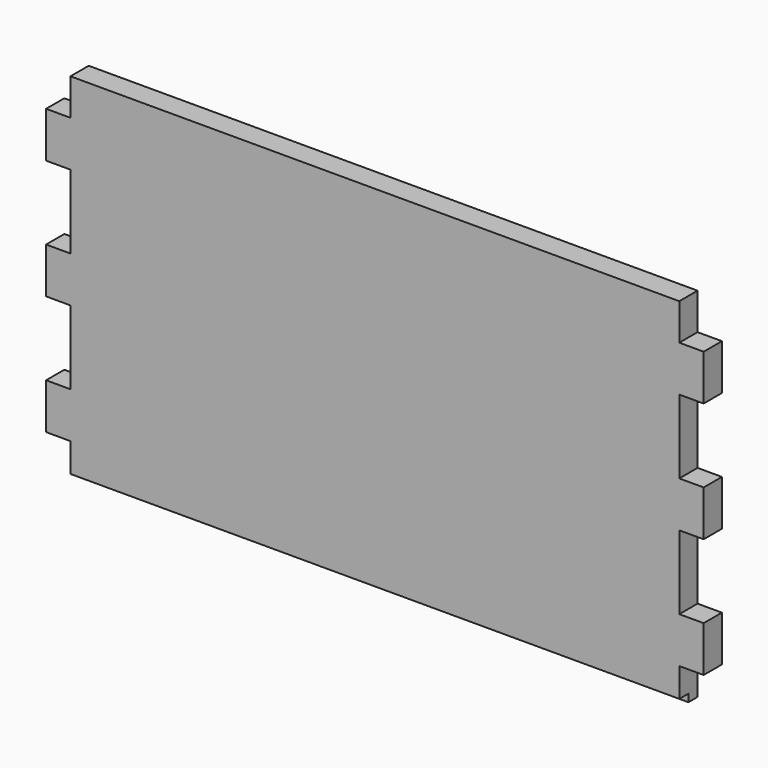
from build123d import *

# Parameters (mm, degrees)
F1_DEPTH = 9.525
F2_W     = 9.525
F2_H     = 6.35
F3_DEPTH = 528.321


with BuildPart() as f1:
    # F0 (on Front) → F1 (new body, symmetric)
    with BuildSketch(Plane.XZ):
        Polygon((254, 149.225), (-254, 149.225), (-254, 118.745), (-274.32, 118.745), (-274.32, 80.645), (-254, 80.645), (-254, 19.05), (-274.32, 19.05), (-274.32, -19.05), (-254, -19.05), (-254, -80.645), (-274.32, -80.645), (-274.32, -118.745), (-254, -118.745), (-254, -149.225), (254, -149.225), (254, -118.745), (274.32, -118.745), (274.32, -80.645), (254, -80.645), (254, -19.05), (274.32, -19.05), (274.32, 19.05), (254, 19.05), (254, 80.645), (274.32, 80.645), (274.32, 118.745), (254, 118.745), align=None)
    extrude(amount=F1_DEPTH, both=True)

    # F2 (on face) → F3 (cut, through all)
    with BuildSketch(Plane(origin=(-254, 0, 0), x_dir=(0, -1, 0), z_dir=(-1, 0, 0))):
        with Locations((4.7625, -146.05)):
            Rectangle(F2_W, F2_H)
    extrude(amount=-F3_DEPTH, mode=Mode.SUBTRACT)


solid = f1.part
